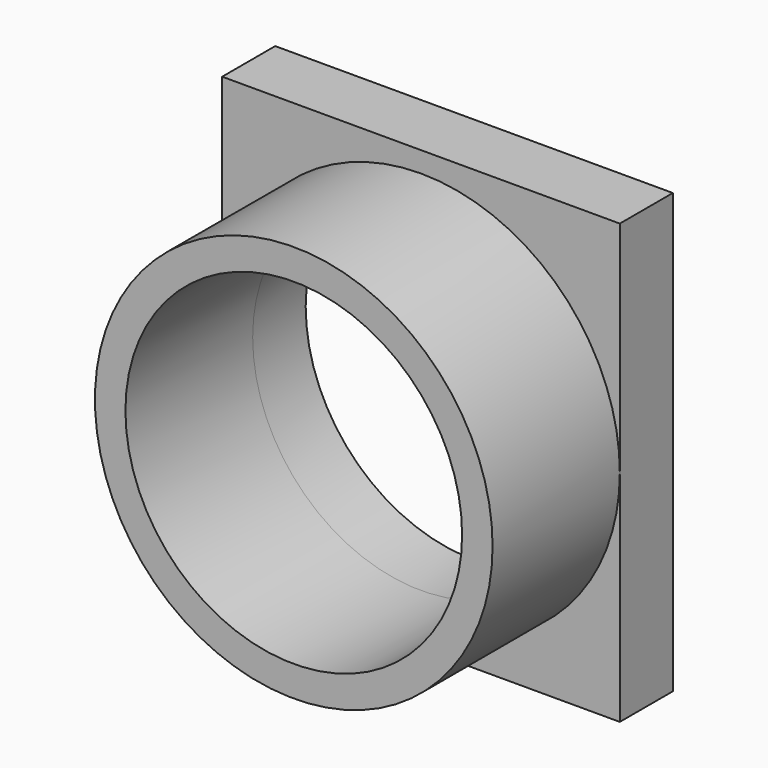
from build123d import *

# Parameters (mm, degrees)
F0_W     = 30
F0_H     = 33.1
F1_DEPTH = 5
F2_R     = 15
F2_R_2   = 12.7
F3_DEPTH = 12
F4_R     = 12.7
F5_DEPTH = 25


with BuildPart() as f1:
    # F0 (on Front) → F1 (new body)
    with BuildSketch(Plane.XZ):
        Rectangle(F0_W, F0_H)
    extrude(amount=F1_DEPTH)

    # F2 (on face) → F3 (join)
    with BuildSketch(Plane.XZ.offset(5)):
        Circle(F2_R)
        Circle(F2_R_2, mode=Mode.SUBTRACT)
    extrude(amount=F3_DEPTH)

    # F4 (on face) → F5 (cut)
    with BuildSketch(Plane.XZ.offset(5)):
        Circle(F4_R)
    extrude(amount=-F5_DEPTH, mode=Mode.SUBTRACT)


solid = f1.part
